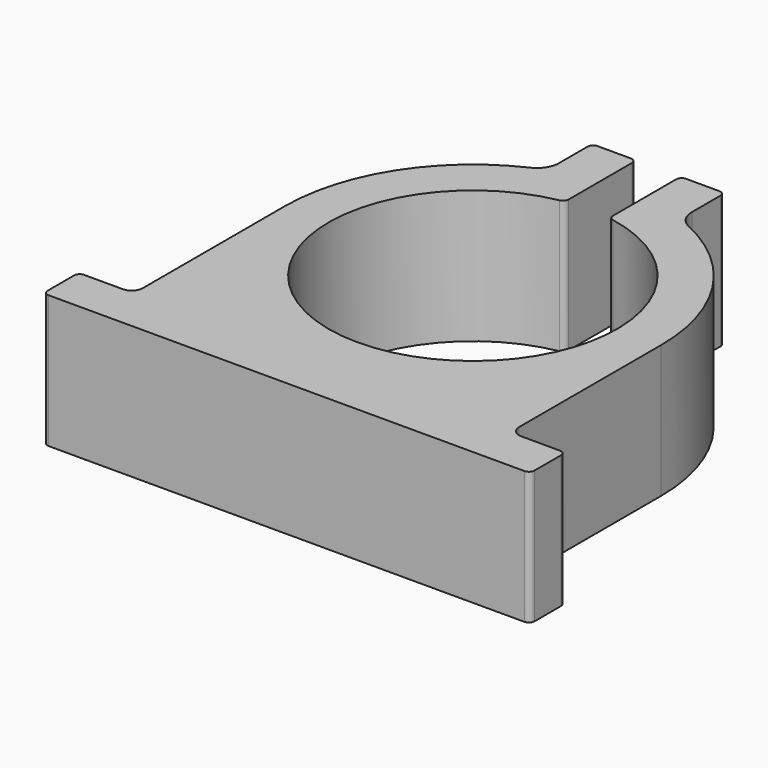
from build123d import *

# Parameters (mm, degrees)
F1_DEPTH = 38.1


with BuildPart() as f1:
    # F0 (on Top) → F1 (new body)
    with BuildSketch(Plane.XY):
        with BuildLine():
            ThreePointArc((0, 1.5875), (0.464968, 0.464968), (1.5875, 0))
            Line((1.5875, 0), (138.1125, 0))
            ThreePointArc((138.1125, 0), (139.235032, 0.464968), (139.7, 1.5875))
            Line((139.7, 1.5875), (139.7, 11.1125))
            ThreePointArc((139.7, 11.1125), (139.235032, 12.235032), (138.1125, 12.7))
            Line((138.1125, 12.7), (127, 12.7))
            ThreePointArc((127, 12.7), (124.754936, 13.629936), (123.825, 15.875))
            Line((123.825, 15.875), (123.825, 66.802))
            ThreePointArc((123.825, 66.802), (115.346997, 95.842039), (92.576316, 115.759279))
            ThreePointArc((92.576316, 115.759279), (89.897412, 118.102484), (88.9, 121.518959))
            Line((88.9, 121.518959), (88.9, 131.7625))
            ThreePointArc((88.9, 131.7625), (88.435032, 132.885032), (87.3125, 133.35))
            Line((87.3125, 133.35), (77.7875, 133.35))
            ThreePointArc((77.7875, 133.35), (76.664968, 132.885032), (76.2, 131.7625))
            Line((76.2, 131.7625), (76.2, 109.052363))
            ThreePointArc((76.2, 109.052363), (76.565724, 108.038746), (77.494387, 107.492158))
            ThreePointArc((77.494387, 107.492158), (69.85, 25.4), (62.205613, 107.492158))
            ThreePointArc((62.205613, 107.492158), (63.134276, 108.038746), (63.5, 109.052363))
            Line((63.5, 109.052363), (63.5, 131.7625))
            ThreePointArc((63.5, 131.7625), (63.035032, 132.885032), (61.9125, 133.35))
            Line((61.9125, 133.35), (52.3875, 133.35))
            ThreePointArc((52.3875, 133.35), (51.264968, 132.885032), (50.8, 131.7625))
            Line((50.8, 131.7625), (50.8, 121.518959))
            ThreePointArc((50.8, 121.518959), (49.802588, 118.102484), (47.123684, 115.759279))
            ThreePointArc((47.123684, 115.759279), (24.353003, 95.842039), (15.875, 66.802))
            Line((15.875, 66.802), (15.875, 15.875))
            ThreePointArc((15.875, 15.875), (14.945064, 13.629936), (12.7, 12.7))
            Line((12.7, 12.7), (1.5875, 12.7))
            ThreePointArc((1.5875, 12.7), (0.464968, 12.235032), (0, 11.1125))
            Line((0, 11.1125), (0, 1.5875))
        make_face()
    extrude(amount=F1_DEPTH)


solid = f1.part
